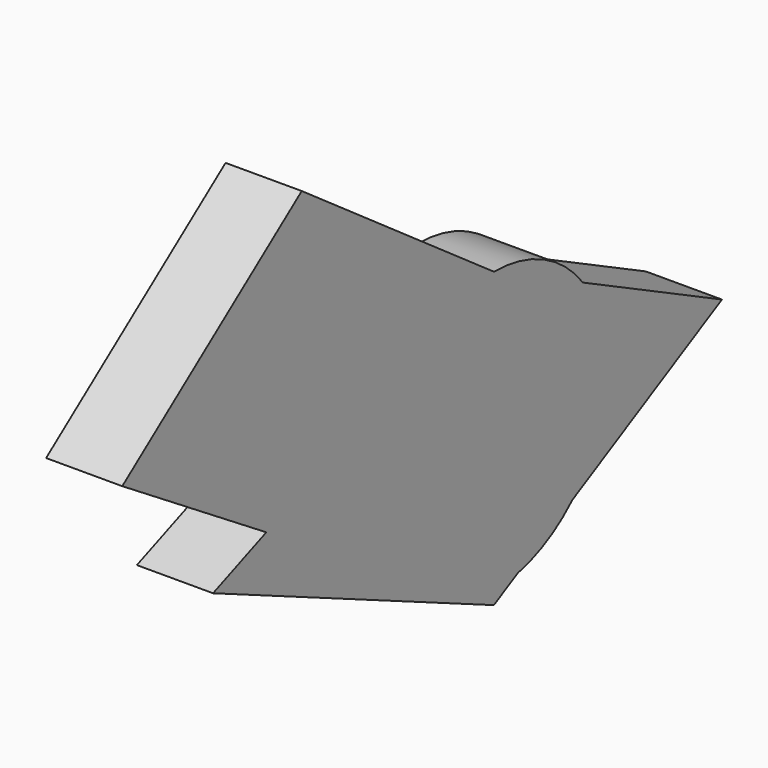
from build123d import *

# Parameters (mm, degrees)
F1_DEPTH = 25


with BuildPart() as f1:
    # F0 (on Right) → F1 (new body)
    with BuildSketch(Plane.YZ):
        with BuildLine():
            ThreePointArc((32.1662380939, -32.9784685673), (42.45041522, -17.8943708973), (46.0678441232, 0))
            ThreePointArc((46.0678441232, 0), (43.6151120373, 14.8313271197), (36.5180912177, 28.0833629747))
            Line((36.5180912177, 28.0833629747), (0, 46.0678441232))
            Line((0, 46.0678441232), (-31.7657145821, 33.364436744))
            ThreePointArc((-31.7657145821, 33.364436744), (-45.8389447899, 4.5866548494), (-37.7466590893, -26.4090134188))
            Line((-37.7466590893, -26.4090134188), (-7.6490031363, -45.4283943495))
            ThreePointArc((-7.6490031363, -45.4283943495), (1.0679410721, -46.0554639975), (9.7464507406, -45.0250259313))
            Line((9.7464507406, -45.0250259313), (32.1662380939, -32.9784685673))
        make_face()
        with BuildLine():
            ThreePointArc((36.5180912177, 28.0833629747), (43.6151120373, 14.8313271197), (46.0678441232, 0))
            ThreePointArc((46.0678441232, 0), (42.45041522, -17.8943708973), (32.1662380939, -32.9784685673))
            Line((32.1662380939, -32.9784685673), (93.5423001647, 0))
            Line((93.5423001647, 0), (36.5180912177, 28.0833629747))
        make_face()
        with BuildLine():
            Line((0, 46.0678441232), (36.5180912177, 28.0833629747))
            ThreePointArc((36.5180912177, 28.0833629747), (20.3532095034, 41.3278734641), (0, 46.0678441232))
        make_face()
        with BuildLine():
            ThreePointArc((9.7464507406, -45.0250259313), (21.8047760231, -40.5807590459), (32.1662380939, -32.9784685673))
            Line((32.1662380939, -32.9784685673), (9.7464507406, -45.0250259313))
        make_face()
        with BuildLine():
            Line((-31.7657145821, 33.364436744), (0, 46.0678441232))
            ThreePointArc((0, 46.0678441232), (-17.1058263608, 42.7742558868), (-31.7657145821, 33.364436744))
        make_face()
        with BuildLine():
            ThreePointArc((-31.7657145821, 33.364436744), (-17.1058263608, 42.7742558868), (0, 46.0678441232))
            Line((0, 46.0678441232), (-78.8181275129, 101.4166995883))
            Line((-78.8181275129, 101.4166995883), (-152.4393260479, 46.0678441232))
            Line((-152.4393260479, 46.0678441232), (-93.3580668383, 8.7330770393))
            Line((-93.3580668383, 8.7330770393), (-31.7657145821, 33.364436744))
        make_face()
        with BuildLine():
            Line((0, -50.2619702472), (9.7464507406, -45.0250259313))
            ThreePointArc((9.7464507406, -45.0250259313), (1.0679410721, -46.0554639975), (-7.6490031363, -45.4283943495))
            Line((-7.6490031363, -45.4283943495), (0, -50.2619702472))
        make_face()
        with BuildLine():
            ThreePointArc((-37.7466590893, -26.4090134188), (-45.8389447899, 4.5866548494), (-31.7657145821, 33.364436744))
            Line((-31.7657145821, 33.364436744), (-93.3580668383, 8.7330770393))
            Line((-93.3580668383, 8.7330770393), (-37.7466590893, -26.4090134188))
        make_face()
        with BuildLine():
            Line((0, -50.2619702472), (-7.6490031363, -45.4283943495))
            ThreePointArc((-7.6490031363, -45.4283943495), (-13.1340921063, -44.1558816773), (-18.4229631222, -42.2236982269))
            Line((-18.4229631222, -42.2236982269), (0, -50.2619702472))
        make_face()
        with BuildLine():
            ThreePointArc((-18.4229631222, -42.2236982269), (-13.1340921063, -44.1558816773), (-7.6490031363, -45.4283943495))
            Line((-7.6490031363, -45.4283943495), (-37.7466590893, -26.4090134188))
            ThreePointArc((-37.7466590893, -26.4090134188), (-29.1767489405, -35.6505762004), (-18.4229631222, -42.2236982269))
        make_face()
        with BuildLine():
            ThreePointArc((-18.4229631222, -42.2236982269), (-29.1767489405, -35.6505762004), (-37.7466590893, -26.4090134188))
            Line((-37.7466590893, -26.4090134188), (-93.3580668383, 8.7330770393))
            Line((-93.3580668383, 8.7330770393), (-115.1957064867, 0))
            Line((-115.1957064867, 0), (-18.4229631222, -42.2236982269))
        make_face()
    extrude(amount=F1_DEPTH)


solid = f1.part
